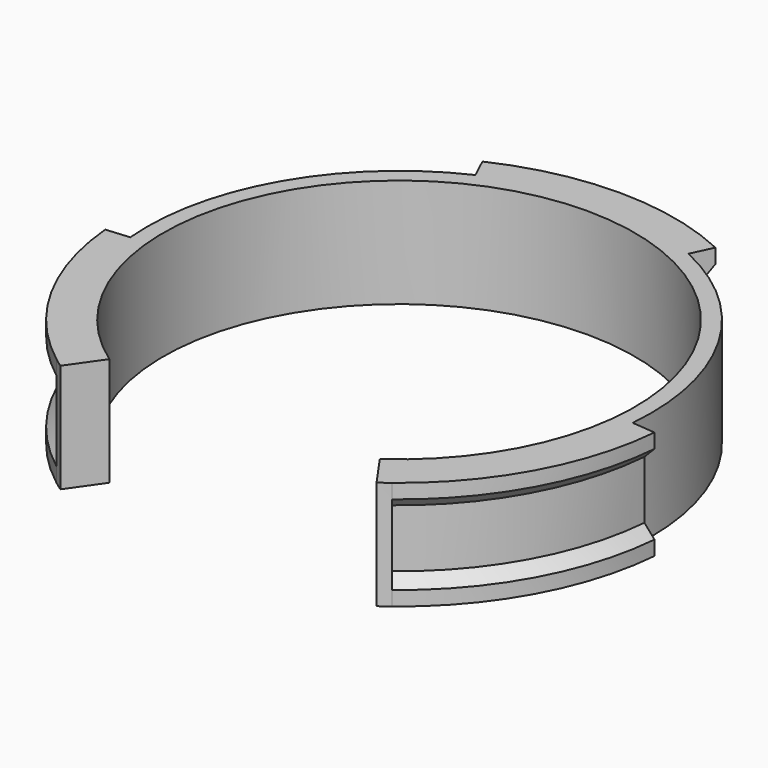
from build123d import *

# Parameters (mm, degrees)
F1_DEPTH = 15
F4_ANGLE = -285


with BuildPart() as f1:
    # F0 (on Top) → F1 (new body)
    with BuildSketch(Plane.XY):
        with BuildLine():
            Line((18.641234, -26.622441), (21.795905, -31.127778))
            ThreePointArc((21.795905, -31.127778), (32.908965, -19), (37.855399, -3.311918))
            Line((37.855399, -3.311918), (34.630776, -3.0298))
            ThreePointArc((34.630776, -3.0298), (30.105693, 17.38153), (14.691504, 31.506032))
            Line((14.691504, 31.506032), (16.059494, 34.439696))
            ThreePointArc((16.059494, 34.439696), (0, 38), (-16.059494, 34.439696))
            Line((-16.059494, 34.439696), (-14.691504, 31.506032))
            ThreePointArc((-14.691504, 31.506032), (-30.105693, 17.38153), (-34.630776, -3.0298))
            Line((-34.630776, -3.0298), (-37.855399, -3.311918))
            ThreePointArc((-37.855399, -3.311918), (-32.908965, -19), (-21.795905, -31.127778))
            Line((-21.795905, -31.127778), (-18.641234, -26.622441))
            ThreePointArc((-18.641234, -26.622441), (0, 32.5), (18.641234, -26.622441))
        make_face()
    extrude(amount=F1_DEPTH)

    # F3 (on Right) → F4 (revolve, symmetric, cut)
    with BuildSketch(Plane.YZ) as f4_sk:
        Polygon((38, 13), (36.5, 11.5), (36.5, 3.5), (38, 2), (38, 0), (40.645316, 0), (40.645316, 15), (38, 15), align=None)
    revolve(axis=Axis((0, 0, 11.281438), (0, 0, 1)), revolution_arc=F4_ANGLE / 2, mode=Mode.SUBTRACT)
    revolve(f4_sk.sketch, axis=Axis((0, 0, 11.281438), (0, 0, -1)), revolution_arc=F4_ANGLE / 2, mode=Mode.SUBTRACT)


solid = f1.part
